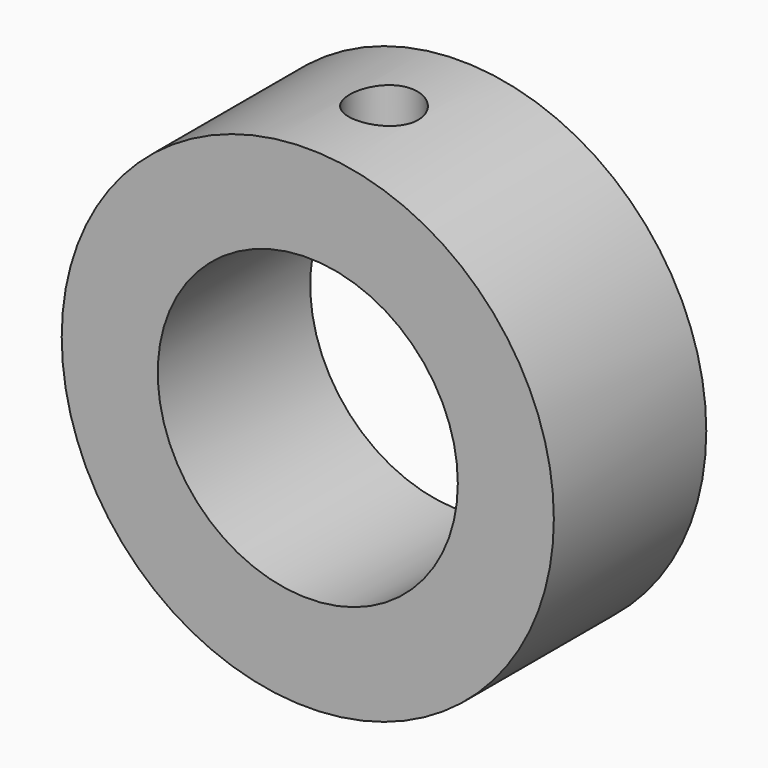
from build123d import *

# Parameters (mm, degrees)
F0_R     = 16.4
F0_R_2   = 10
F1_DEPTH = 12.7
F2_R     = 2.286
F3_DEPTH = 25.4


with BuildPart() as f1:
    # F0 (on Front) → F1 (new body)
    with BuildSketch(Plane.XZ):
        Circle(F0_R)
        Circle(F0_R_2, mode=Mode.SUBTRACT)
    extrude(amount=F1_DEPTH)

    # F2 (on Top) → F3 (cut)
    with BuildSketch(Plane.XY):
        with Locations((0, -6.35)):
            Circle(F2_R)
    extrude(amount=F3_DEPTH, mode=Mode.SUBTRACT)


solid = f1.part
